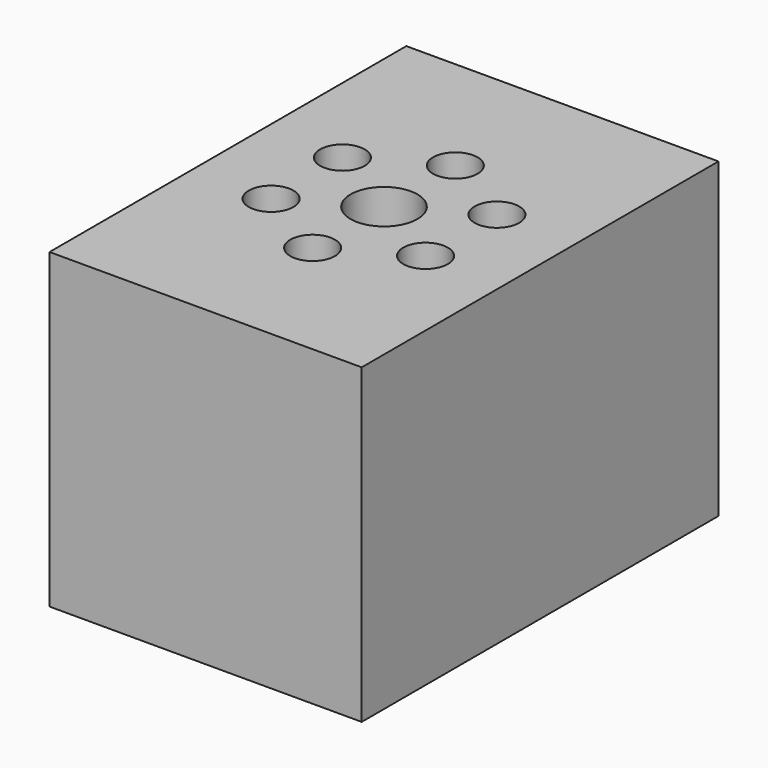
from build123d import *

# Parameters (mm, degrees)
F0_W     = 70
F0_H     = 100
F0_R     = 5
F0_R_2   = 7.5
F1_DEPTH = 70


with BuildPart() as f1:
    # F0 (on Top) → F1 (new body)
    with BuildSketch(Plane.XY):
        Rectangle(F0_W, F0_H)
        with Locations((-17.320508, -10)):
            Circle(F0_R, mode=Mode.SUBTRACT)
        with Locations((0, -20)):
            Circle(F0_R, mode=Mode.SUBTRACT)
        with Locations((17.320508, -10)):
            Circle(F0_R, mode=Mode.SUBTRACT)
        with Locations((-17.320508, 10)):
            Circle(F0_R, mode=Mode.SUBTRACT)
        Circle(F0_R_2, mode=Mode.SUBTRACT)
        with Locations((17.320508, 10)):
            Circle(F0_R, mode=Mode.SUBTRACT)
        with Locations((0, 20)):
            Circle(F0_R, mode=Mode.SUBTRACT)
    extrude(amount=F1_DEPTH)


solid = f1.part
